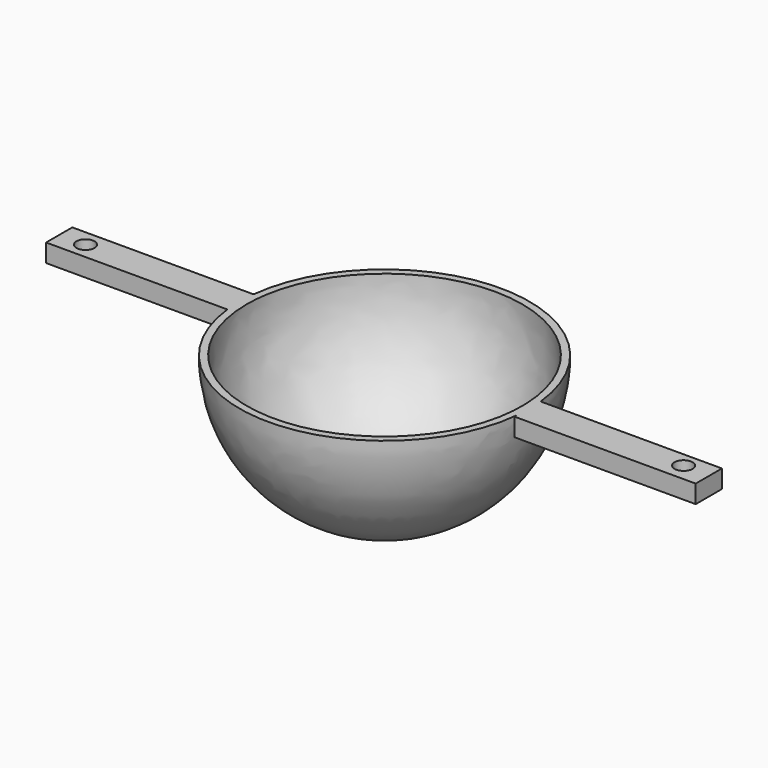
from build123d import *

# Parameters (mm, degrees)
F2_T      = -2.54
F3_R      = 5.665559
F4_DEPTH  = 50.801
F5_W      = 63.5
F5_H      = 5.7404
F6_DEPTH  = 6.35
F8_DEPTH  = 6.35
F9_R      = 3.175
F10_DEPTH = 6.35


with BuildPart() as f1:
    # F0 (on Front) → F1 (revolve)
    with BuildSketch(Plane.XZ):
        with BuildLine():
            Line((0, 0), (-50.8, 0))
            ThreePointArc((-50.8, 0), (-35.921024, -35.921024), (0, -50.8))
            Line((0, -50.8), (0, 0))
        make_face()
    revolve(axis=Axis((0, 0, -25.4), (0, 0, -1)))

    # F2
    f2_openings = [f1.faces().sort_by_distance(p)[0] for p in [
        (0, 0, 0),
    ]]
    offset(amount=F2_T, openings=f2_openings)

    # F3 (on Top) → F4 (cut, through all)
    with BuildSketch(Plane.XY):
        Circle(F3_R)
    extrude(amount=-F4_DEPTH, mode=Mode.SUBTRACT)

    # F5 (on Top) → F6 (join)
    with BuildSketch(Plane.XY):
        with Locations((-82.225717, 2.860592)):
            Rectangle(F5_W, F5_H)
        with Locations((-82.225717, -2.879808)):
            Rectangle(F5_W, F5_H)
    extrude(amount=-F6_DEPTH)

    # F7 (on Top) → F8 (join)
    with BuildSketch(Plane.XY):
        with BuildLine():
            Line((50.531664, -0.525906), (50.531664, -5.214494))
            ThreePointArc((50.531664, -5.214494), (50.718678, -2.873271), (50.797278, -0.525906))
            Line((50.797278, -0.525906), (50.531664, -0.525906))
        make_face()
        with BuildLine():
            ThreePointArc((50.797278, -0.525906), (50.718678, -2.873271), (50.531664, -5.214494))
            Line((50.531664, -5.214494), (50.531664, -6.266306))
            Line((50.531664, -6.266306), (114.031664, -6.266306))
            Line((114.031664, -6.266306), (114.031664, -0.525906))
            Line((114.031664, -0.525906), (50.797278, -0.525906))
        make_face()
        with BuildLine():
            Line((50.531664, -0.525906), (50.797278, -0.525906))
            ThreePointArc((50.797278, -0.525906), (50.745706, 2.348053), (50.531664, 5.214494))
            Line((50.531664, 5.214494), (50.531664, -0.525906))
        make_face()
        with BuildLine():
            ThreePointArc((50.531664, 5.214494), (50.745706, 2.348053), (50.797278, -0.525906))
            Line((50.797278, -0.525906), (114.031664, -0.525906))
            Line((114.031664, -0.525906), (114.031664, 5.214494))
            Line((114.031664, 5.214494), (50.531664, 5.214494))
        make_face()
    extrude(amount=-F8_DEPTH)

    # F9 (on face) → F10 (cut)
    with BuildSketch(Plane.XY):
        with Locations((-104.775, 0)):
            Circle(F9_R)
        with Locations((104.775, 0)):
            Circle(F9_R)
    extrude(amount=-F10_DEPTH, mode=Mode.SUBTRACT)


solid = f1.part
